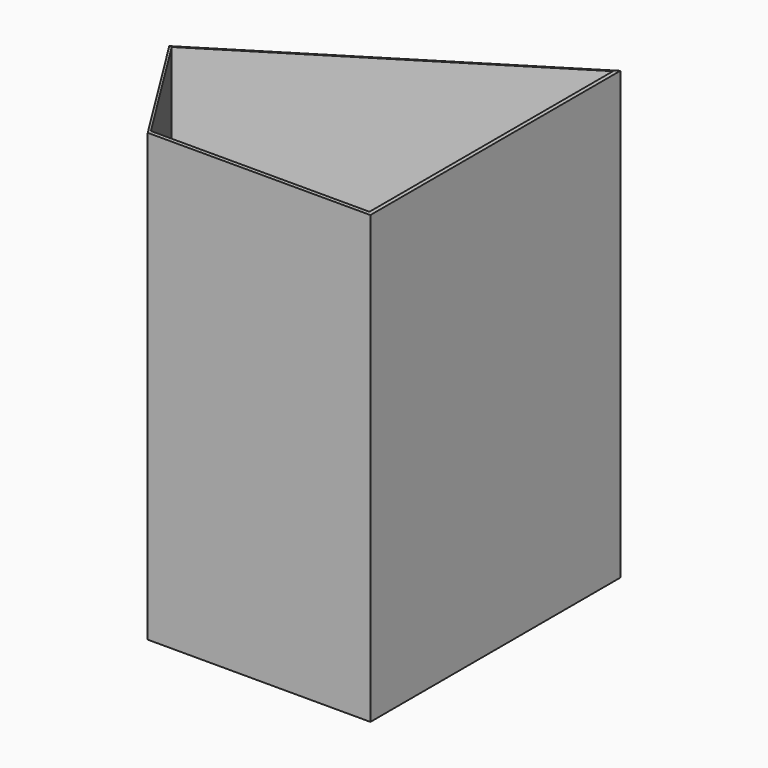
from build123d import *

# Parameters (mm, degrees)
F1_DEPTH = 25.4
F2_W     = 1533.531874
F2_H     = 26.754558
F3_DEPTH = 3048
F5_DEPTH = 3048
F7_DEPTH = 3048
F9_DEPTH = 3048


with BuildPart() as f1:
    # F0 (on Top) → F1 (new body)
    with BuildSketch(Plane.XY):
        Polygon((1877.152562, 1379.855514), (-196.919069, 89.690931), (343.620688, -771.349192), (1877.152562, -771.349192), align=None)
    extrude(amount=F1_DEPTH)

    # F2 (on face) → F3 (join)
    with BuildSketch(Plane.XY.offset(25.4)):
        with Locations((1110.386625, -757.971913)):
            Rectangle(F2_W, F2_H)
    extrude(amount=F3_DEPTH)

    # F4 (on face) → F5 (join)
    with BuildSketch(Plane.XY.offset(25.4)):
        Polygon((-180.123217, 89.690931), (-196.919069, 89.690931), (343.620688, -771.349192), (343.620688, -744.594634), align=None)
    extrude(amount=F5_DEPTH)

    # F6 (on face) → F7 (join)
    with BuildSketch(Plane.XY.offset(25.4)):
        Polygon((1877.152562, 1369.407748), (1877.152562, 1379.855514), (-196.919069, 89.690931), (-180.123217, 89.690931), align=None)
    extrude(amount=F7_DEPTH)

    # F8 (on face) → F9 (join)
    with BuildSketch(Plane.XY.offset(25.4)):
        Polygon((1877.152562, -744.594634), (1877.152562, 1369.407748), (1849.442244, 1352.170701), (1849.442244, -744.594634), align=None)
    extrude(amount=F9_DEPTH)


solid = f1.part
